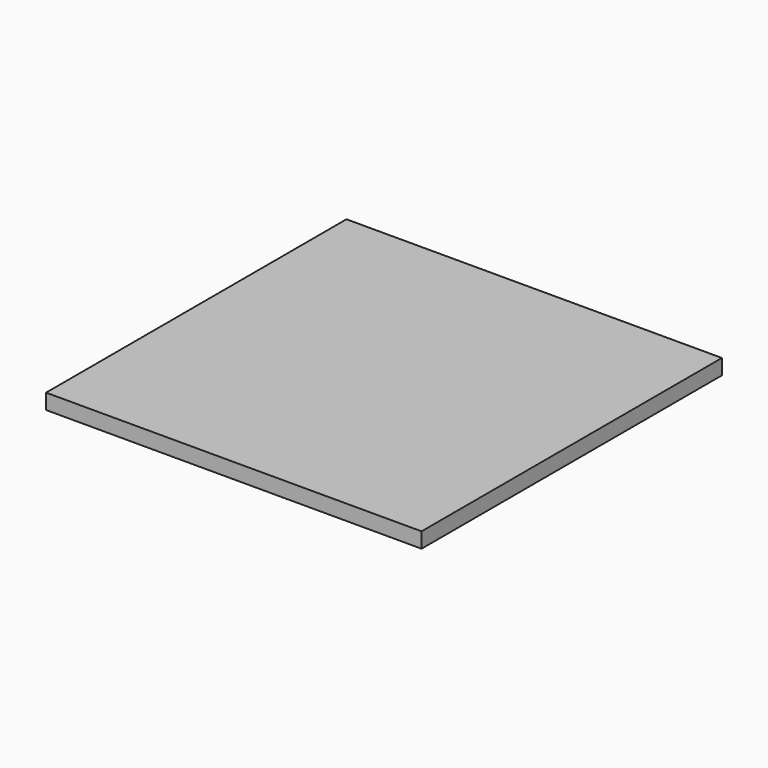
from build123d import *

# Parameters (mm, degrees)
F0_W     = 155.575
F0_H     = 155.575
F1_DEPTH = 6.35
F2_R     = 1.7272
F3_DEPTH = 4.7625


with BuildPart() as f1:
    # F0 (on Top) → F1 (new body)
    with BuildSketch(Plane.XY):
        with Locations((77.7875, -77.7875)):
            Rectangle(F0_W, F0_H)
    extrude(amount=F1_DEPTH)

    # F2 (on face) → F3 (cut)
    with BuildSketch(Plane(origin=(0, 0, 0), x_dir=(1, 0, 0), z_dir=(0, 0, -1))):
        with Locations((147.6375, 150.8125)):
            Circle(F2_R)
        with Locations((147.6375, 4.7625)):
            Circle(F2_R)
        with Locations((7.9375, 4.7625)):
            Circle(F2_R)
        with Locations((7.9375, 150.8125)):
            Circle(F2_R)
    extrude(amount=-F3_DEPTH, mode=Mode.SUBTRACT)


solid = f1.part
